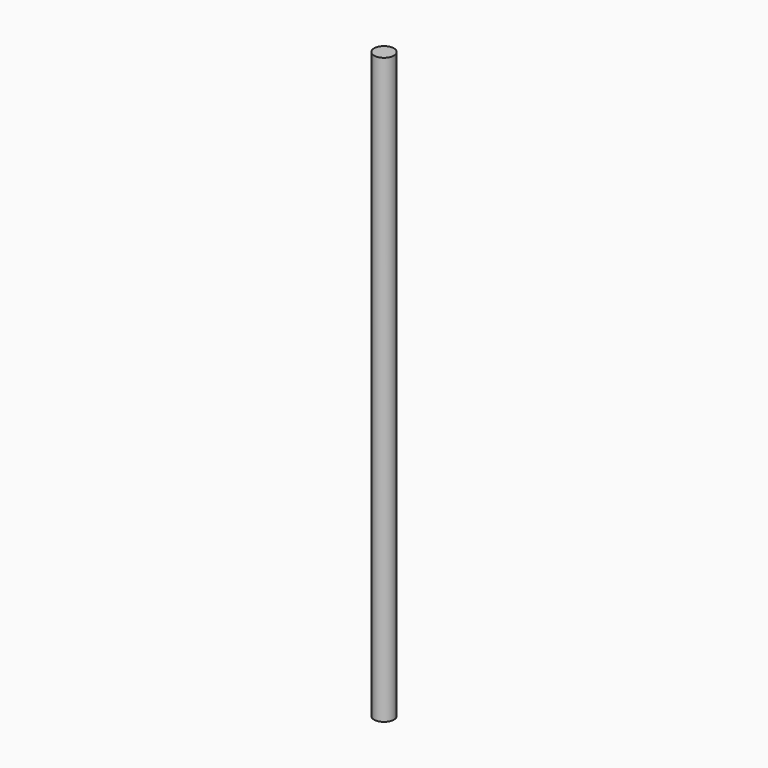
from build123d import *

# Parameters (mm, degrees)
SKETCH_R  = 8.5
PAD_DEPTH = 500


with BuildPart() as part:
    # Sketch → Pad (new body)
    with BuildSketch(Plane.XY):
        Circle(SKETCH_R)
    extrude(amount=PAD_DEPTH)


solid = part.part
